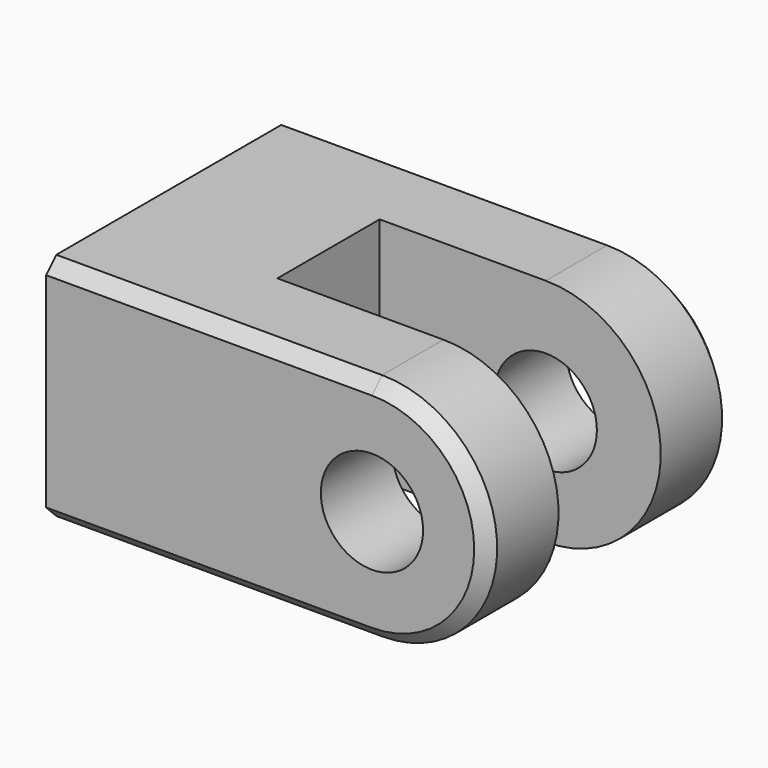
from build123d import *

# Parameters (mm, degrees)
F0_R     = 12.7
F1_DEPTH = 38.1
F3_DEPTH = 38.1
F5_D     = 29.76626
F4_W     = 76.2
F4_H     = 57.15
F4_R     = 22.225
F6_DEPTH = 1.5875
F7_SIZE  = 3.175


with BuildPart() as f1:
    # F0 (on Front) → F1 (new body, symmetric)
    with BuildSketch(Plane.XZ):
        with BuildLine():
            Line((-55.5625, 28.575), (-55.5625, -28.575))
            Line((-55.5625, -28.575), (26.9875, -28.575))
            ThreePointArc((26.9875, -28.575), (55.5625, 0), (26.9875, 28.575))
            Line((26.9875, 28.575), (-55.5625, 28.575))
        make_face()
        with Locations((26.9875, 0)):
            Circle(F0_R, mode=Mode.SUBTRACT)
    extrude(amount=F1_DEPTH, both=True)

    # F2 (on Top) → F3 (cut, symmetric)
    with BuildSketch(Plane.XY):
        Polygon((55.5625, 0), (55.5625, 15.875), (-14.2875, 15.875), (-14.2875, 0), (-14.2875, -15.875), (55.5625, -15.875), align=None)
    extrude(amount=F3_DEPTH, both=True, mode=Mode.SUBTRACT)

    # F5 (through all)
    with Locations(Plane(origin=(-55.5625, 0, 0), x_dir=(0, -1, 0), z_dir=(-1, 0, 0))):
        with Locations((0, 0)):
            Hole(F5_D / 2)

    # F4 (on face) → F6 (cut)
    with BuildSketch(Plane(origin=(-55.5625, 0, 0), x_dir=(0, -1, 0), z_dir=(-1, 0, 0))):
        Rectangle(F4_W, F4_H)
        Circle(F4_R, mode=Mode.SUBTRACT)
    extrude(amount=-F6_DEPTH, mode=Mode.SUBTRACT)

    # F7
    f7_edges = [f1.edges().sort_by_distance(p)[0] for p in [
        (-13.49375, 38.1, 28.575),
        (-13.49375, -38.1, -28.575),
    ]]
    chamfer(f7_edges, length=F7_SIZE)


solid = f1.part
